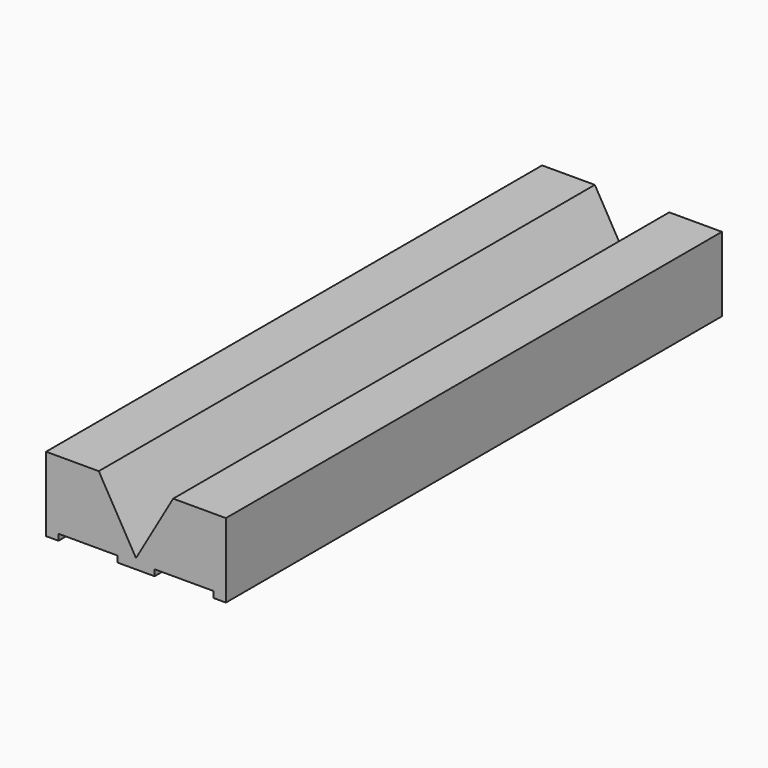
from build123d import *

# Parameters (mm, degrees)
F1_DEPTH = 50


with BuildPart() as f1:
    # F0 (on Front) → F1 (new body, symmetric)
    with BuildSketch(Plane.XZ):
        Polygon((-6, 6), (-14.5, 6), (-14.5, -6), (-12.5, -6), (-12.5, -5), (-3, -5), (-3, -6), (3, -6), (3, -5), (12.5, -5), (12.5, -6), (14.5, -6), (14.5, 6), (6, 6), (0, -4.392305), align=None)
    extrude(amount=F1_DEPTH, both=True)


solid = f1.part
